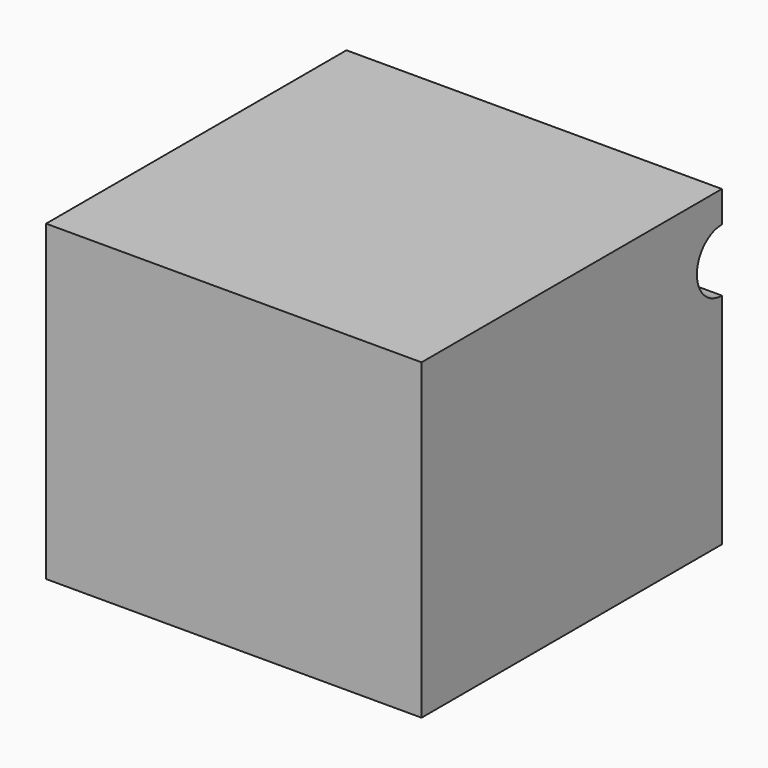
from build123d import *

# Parameters (mm, degrees)
F0_W     = 152.4
F0_H     = 152.4
F1_DEPTH = 63.5
F3_DEPTH = 76.2


with BuildPart() as f1:
    # F0 (on Top) → F1 (new body, symmetric)
    with BuildSketch(Plane.XY):
        Rectangle(F0_W, F0_H)
    extrude(amount=F1_DEPTH, both=True)

    # F2 (on face) → F3 (cut)
    with BuildSketch(Plane.YZ.offset(76.2)):
        with BuildLine():
            Line((76.2, 25.4), (76.2, 50.8))
            ThreePointArc((76.2, 50.8), (63.5, 38.1), (76.2, 25.4))
        make_face()
        with BuildLine():
            ThreePointArc((76.2, 25.4), (85.180256, 29.119744), (88.9, 38.1))
            ThreePointArc((88.9, 38.1), (85.180256, 47.080256), (76.2, 50.8))
            Line((76.2, 50.8), (76.2, 25.4))
        make_face()
    extrude(amount=-F3_DEPTH, mode=Mode.SUBTRACT)


solid = f1.part
